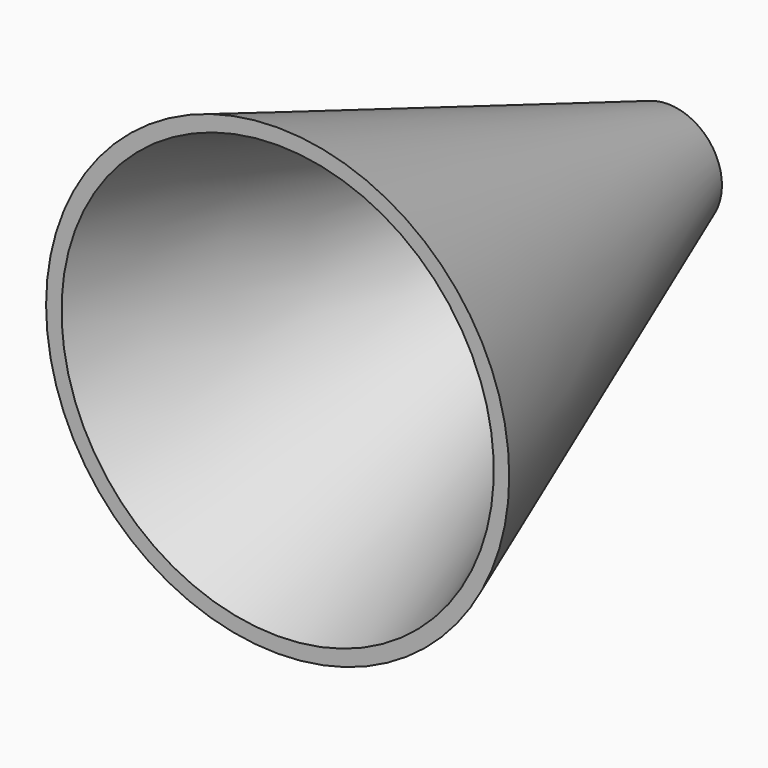
from build123d import *


with BuildPart() as f1:
    # F0 (on Right) → F1 (revolve)
    with BuildSketch(Plane.YZ):
        Polygon((157.979952, 17.5), (0, 75), (0, 70), (157.979952, 12.5), align=None)
    revolve(axis=Axis((0, 99.476732, 0), (0, 1, 0)))


solid = f1.part
